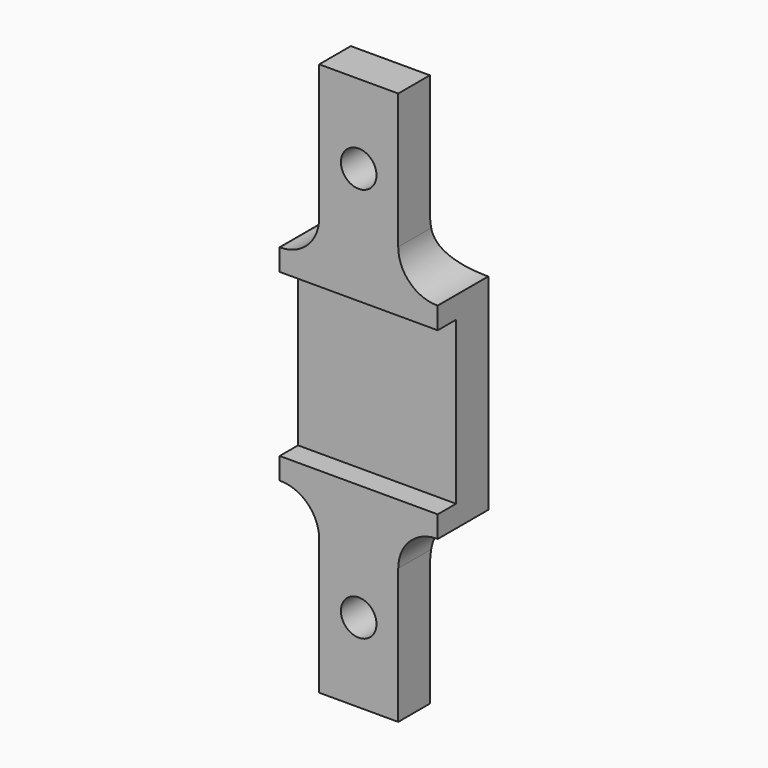
from build123d import *

# Parameters (mm, degrees)
SKETCH009_R          = 2.25
PAD007_DEPTH         = 8
SKETCH010_W          = 20.5
SKETCH010_H          = 2.9
POCKET002_DEPTH      = 20
POCKET003_DEPTH      = 15.001
POCKET003_DEPTH_BACK = 5.001


with BuildPart() as part:
    # Sketch009 → Pad007 (new body)
    with BuildSketch(Plane.XZ):
        with BuildLine():
            Line((40, -13), (40.1, -13))
            ThreePointArc((45, -17.9), (43.564823, -14.435177), (40.1, -13))
            Line((45, -17.9), (45, -35))
            Line((45, -35), (55, -35))
            Line((55, -35), (55, -17.9))
            ThreePointArc((59.9, -13), (56.435177, -14.435177), (55, -17.9))
            Line((59.9, -13), (60, -13))
            Line((60, -13), (60, 13))
            Line((60, 13), (59.9, 13))
            ThreePointArc((55, 17.9), (56.435177, 14.435177), (59.9, 13))
            Line((55, 17.9), (55, 35))
            Line((55, 35), (45, 35))
            Line((45, 35), (45, 17.9))
            ThreePointArc((40.1, 13), (43.564823, 14.435177), (45, 17.9))
            Line((40.1, 13), (40, 13))
            Line((40, 13), (40, -13))
        make_face()
        with Locations((50, -25)):
            Circle(SKETCH009_R, mode=Mode.SUBTRACT)
        with Locations((50, 25)):
            Circle(SKETCH009_R, mode=Mode.SUBTRACT)
    extrude(amount=PAD007_DEPTH)

    # Sketch010 (on Face2 of Pad007) → Pocket002 (cut)
    with BuildSketch(Plane(origin=(40, 0, 0), x_dir=(0, 0, -1), z_dir=(-1, 0, 0))):
        with Locations((0, 6.55)):
            Rectangle(SKETCH010_W, SKETCH010_H)
    extrude(amount=-POCKET002_DEPTH, mode=Mode.SUBTRACT)

    # Sketch011 (on Face13 of Pocket002) → Pocket003 (cut, two sides)
    with BuildSketch(Plane(origin=(45, 0, 0), x_dir=(0, 0, -1), z_dir=(-1, 0, 0))) as pocket003_sk:
        with BuildLine():
            Line((-35, 3), (-19.9, 3))
            ThreePointArc((-13, 0), (-16.138019, 2.217556), (-19.9, 3))
            Line((-35, 0), (-13, 0))
            Line((-35, 3), (-35, 0))
        make_face()
        with BuildLine():
            Line((13, 0), (35, 0))
            Line((35, 0), (35, 3))
            Line((35, 3), (19.9, 3))
            ThreePointArc((19.9, 3), (16.138019, 2.217556), (13, 0))
        make_face()
    extrude(amount=-POCKET003_DEPTH, mode=Mode.SUBTRACT)
    extrude(pocket003_sk.sketch, amount=POCKET003_DEPTH_BACK, mode=Mode.SUBTRACT)


with BuildPart() as part_1:
    # Body005 placement: moved
    add(part.part.moved(Location((0, 19, 0))))


solid = part_1.part
